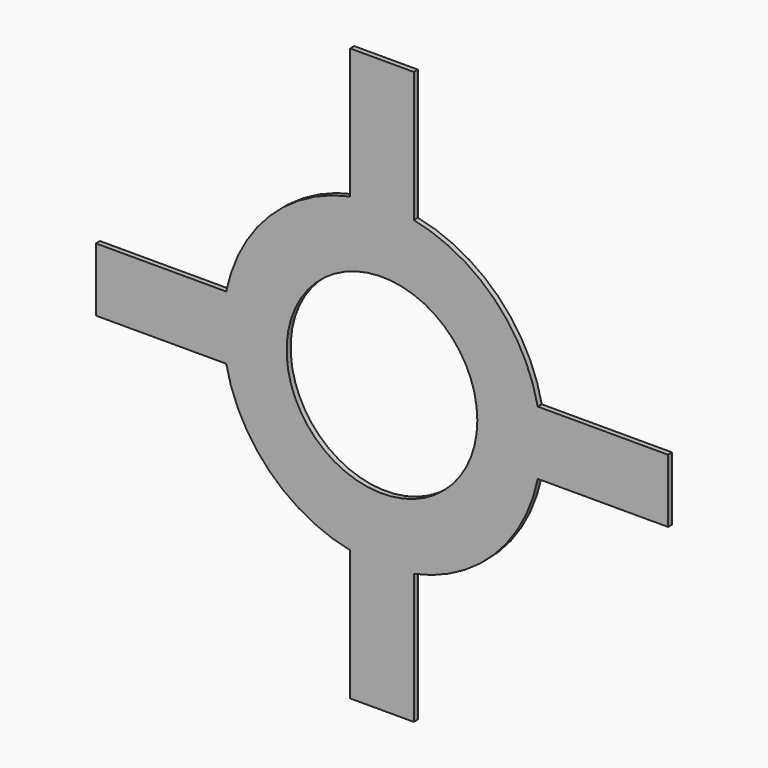
from build123d import *

# Parameters (mm, degrees)
F0_R     = 15
F1_DEPTH = 0.8


with BuildPart() as f1:
    # F0 (on Front) → F1 (new body)
    with BuildSketch(Plane.XZ):
        with BuildLine():
            Line((-45, -5), (-24.494897, -5))
            ThreePointArc((-24.494897, -5), (-17.67767, -17.67767), (-5, -24.494897))
            Line((-5, -24.494897), (-5, -45))
            Line((-5, -45), (5, -45))
            Line((5, -45), (5, -24.494897))
            ThreePointArc((5, -24.494897), (17.67767, -17.67767), (24.494897, -5))
            Line((24.494897, -5), (45, -5))
            Line((45, -5), (45, 5))
            Line((45, 5), (24.494897, 5))
            ThreePointArc((24.494897, 5), (17.67767, 17.67767), (5, 24.494897))
            Line((5, 24.494897), (5, 45))
            Line((5, 45), (-5, 45))
            Line((-5, 45), (-5, 24.494897))
            ThreePointArc((-5, 24.494897), (-17.67767, 17.67767), (-24.494897, 5))
            Line((-24.494897, 5), (-45, 5))
            Line((-45, 5), (-45, -5))
        make_face()
        Circle(F0_R, mode=Mode.SUBTRACT)
    extrude(amount=F1_DEPTH)


solid = f1.part
